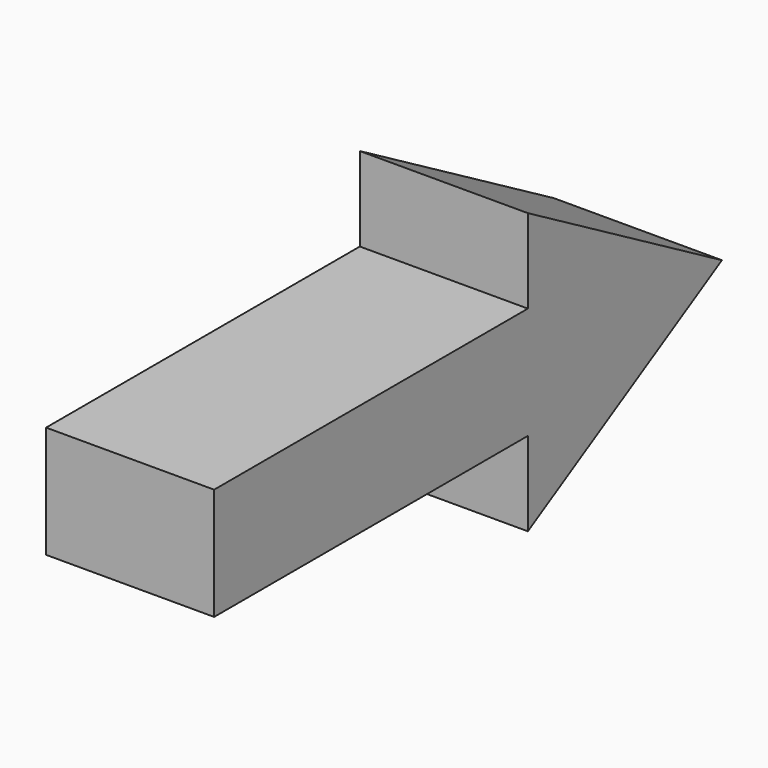
from build123d import *

# Parameters (mm, degrees)
F0_W     = 3.5
F0_H     = 1
F1_DEPTH = 1.5


with BuildPart() as f1:
    # F0 (on Right) → F1 (new body)
    with BuildSketch(Plane.YZ):
        with Locations((-1.75, 0)):
            Rectangle(F0_W, F0_H)
        Polygon((0, 0.5), (0, -0.5), (0, -1.25), (2.165064, 0), (0, 1.25), align=None)
    extrude(amount=F1_DEPTH)


solid = f1.part
